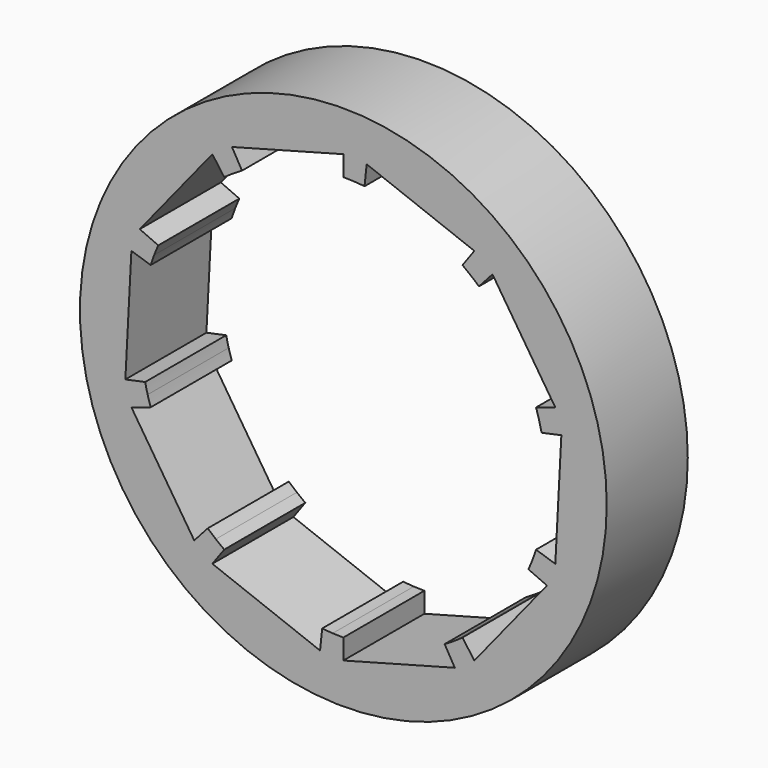
from build123d import *

# Parameters (mm, degrees)
F0_R     = 66.04
F1_DEPTH = 25.4


with BuildPart() as f1:
    # F0 (on Front) → F1 (new body)
    with BuildSketch(Plane.XZ):
        Circle(F0_R)
        with BuildLine():
            ThreePointArc((53.975935173, 14.4628082403), (54.3360311518, 13.0449269323), (54.658887929, 11.6181052829))
            ThreePointArc((54.658887929, 11.6181052829), (55.5738835132, 5.8410505274), (55.88, 0))
            ThreePointArc((55.88, 0), (55.1920244725, -8.7415579064), (53.1450381306, -17.2678696457))
            ThreePointArc((53.1450381306, -17.2678696457), (52.6748065222, -18.653127294), (52.1684742327, -20.0256010206))
            ThreePointArc((52.1684742327, -20.0256010206), (51.6263882767, -21.3843502006), (51.0489201731, -22.7284436151))
            ThreePointArc((51.0489201731, -22.7284436151), (43.4269163262, -35.1664234519), (32.8454398981, -45.2078696457))
            ThreePointArc((32.8454398981, -45.2078696457), (31.6507805194, -46.0521714202), (30.4344292766, -46.8649113368))
            ThreePointArc((30.4344292766, -46.8649113368), (29.1972197963, -47.6455323841), (27.94, -48.3934995635))
            ThreePointArc((27.94, -48.3934995635), (14.4628082403, -53.975935173), (0, -55.88))
            ThreePointArc((0, -55.88), (-1.4627678714, -55.8608513196), (-2.9245332349, -55.8034184021))
            ThreePointArc((-2.9245332349, -55.8034184021), (-4.3842942693, -55.707740609), (-5.8410505274, -55.5738835132))
            ThreePointArc((-5.8410505274, -55.5738835132), (-20.0256010206, -52.1684742327), (-32.8454398981, -45.2078696457))
            ThreePointArc((-32.8454398981, -45.2078696457), (-34.017588653, -44.3325846555), (-35.1664234519, -43.4269163262))
            ThreePointArc((-35.1664234519, -43.4269163262), (-36.2911569407, -42.4914853577), (-37.3910182833, -41.5269328477))
            ThreePointArc((-37.3910182833, -41.5269328477), (-46.8649113368, -30.4344292766), (-53.1450381306, -17.2678696457))
            ThreePointArc((-53.1450381306, -17.2678696457), (-53.5788467844, -15.8707774621), (-53.975935173, -14.4628082403))
            ThreePointArc((-53.975935173, -14.4628082403), (-54.3360311518, -13.0449269323), (-54.658887929, -11.6181052829))
            ThreePointArc((-54.658887929, -11.6181052829), (-55.8034184021, 2.9245332349), (-53.1450381306, 17.2678696457))
            ThreePointArc((-53.1450381306, 17.2678696457), (-52.6748065222, 18.653127294), (-52.1684742327, 20.0256010206))
            ThreePointArc((-52.1684742327, 20.0256010206), (-51.6263882767, 21.3843502006), (-51.0489201731, 22.7284436151))
            ThreePointArc((-51.0489201731, 22.7284436151), (-43.4269163262, 35.1664234519), (-32.8454398981, 45.2078696457))
            ThreePointArc((-32.8454398981, 45.2078696457), (-31.6507805194, 46.0521714202), (-30.4344292766, 46.8649113368))
            ThreePointArc((-30.4344292766, 46.8649113368), (-29.1972197963, 47.6455323841), (-27.94, 48.3934995635))
            ThreePointArc((-27.94, 48.3934995635), (-14.4628082403, 53.975935173), (0, 55.88))
            ThreePointArc((0, 55.88), (1.4627678714, 55.8608513196), (2.9245332349, 55.8034184021))
            ThreePointArc((2.9245332349, 55.8034184021), (4.3842942693, 55.707740609), (5.8410505274, 55.5738835132))
            ThreePointArc((5.8410505274, 55.5738835132), (20.0256010206, 52.1684742327), (32.8454398981, 45.2078696457))
            ThreePointArc((32.8454398981, 45.2078696457), (34.017588653, 44.3325846555), (35.1664234519, 43.4269163262))
            ThreePointArc((35.1664234519, 43.4269163262), (36.2911569407, 42.4914853577), (37.3910182833, 41.5269328477))
            ThreePointArc((37.3910182833, 41.5269328477), (46.8649113368, 30.4344292766), (53.1450381306, 17.2678696457))
            ThreePointArc((53.1450381306, 17.2678696457), (53.5788467844, 15.8707774621), (53.975935173, 14.4628082403))
        make_face(mode=Mode.SUBTRACT)
        with BuildLine():
            Line((-52.1684742327, 20.0256010206), (-47.4258856661, 18.2050918369))
            ThreePointArc((-47.4258856661, 18.2050918369), (-46.9330802516, 19.4403183641), (-46.4081092482, 20.6622214682))
            Line((-46.4081092482, 20.6622214683), (-51.0489201731, 22.7284436151))
            ThreePointArc((-51.0489201731, 22.7284436151), (-51.6263882767, 21.3843502006), (-52.1684742327, 20.0256010206))
        make_face()
        with BuildLine():
            ThreePointArc((-48.3136710278, 15.6980633142), (-47.8861877475, 16.9573884491), (-47.4258856661, 18.2050918369))
            Line((-47.4258856661, 18.2050918369), (-52.1684742327, 20.0256010206))
            ThreePointArc((-52.1684742327, 20.0256010206), (-52.6748065222, 18.653127294), (-53.1450381306, 17.2678696457))
            Line((-53.1450381306, 17.2678696457), (-48.3136710278, 15.6980633142))
        make_face()
        with BuildLine():
            Line((-30.4344292766, 46.8649113368), (-27.6676629788, 42.6044648516))
            ThreePointArc((-27.6676629788, 42.6044648516), (-26.5429270876, 43.3141203492), (-25.4, 43.9940905122))
            Line((-25.4, 43.9940905122), (-27.94, 48.3934995635))
            ThreePointArc((-27.94, 48.3934995635), (-29.1972197963, 47.6455323841), (-30.4344292766, 46.8649113368))
        make_face()
        with BuildLine():
            ThreePointArc((-29.8594908165, 41.0980633142), (-28.7734368358, 41.865610382), (-27.6676629788, 42.6044648516))
            Line((-27.6676629788, 42.6044648516), (-30.4344292766, 46.8649113368))
            ThreePointArc((-30.4344292766, 46.8649113368), (-31.6507805194, 46.0521714202), (-32.8454398981, 45.2078696457))
            Line((-32.8454398981, 45.2078696457), (-29.8594908165, 41.0980633142))
        make_face()
        with BuildLine():
            Line((2.9245332349, 55.8034184021), (2.6586665771, 50.7303803655))
            ThreePointArc((2.6586665771, 50.7303803655), (3.985722063, 50.6434005536), (5.310045934, 50.5217122847))
            Line((5.310045934, 50.5217122847), (5.8410505274, 55.5738835132))
            ThreePointArc((5.8410505274, 55.5738835132), (4.3842942693, 55.707740609), (2.9245332349, 55.8034184021))
        make_face()
        with BuildLine():
            ThreePointArc((0, 50.8), (1.329788974, 50.7825921088), (2.6586665771, 50.7303803655))
            Line((2.6586665771, 50.7303803655), (2.9245332349, 55.8034184021))
            ThreePointArc((2.9245332349, 55.8034184021), (1.4627678714, 55.8608513196), (0, 55.88))
            Line((0, 55.88), (0, 50.8))
        make_face()
        with BuildLine():
            ThreePointArc((29.8594908165, 41.0980633142), (30.9250805936, 40.3023496868), (31.9694758653, 39.479014842))
            Line((31.9694758653, 39.479014842), (35.1664234519, 43.4269163262))
            ThreePointArc((35.1664234519, 43.4269163262), (34.017588653, 44.3325846555), (32.8454398981, 45.2078696457))
            Line((32.8454398981, 45.2078696457), (29.8594908165, 41.0980633142))
        make_face()
        with BuildLine():
            Line((35.1664234519, 43.4269163262), (31.9694758653, 39.479014842))
            ThreePointArc((31.9694758653, 39.479014842), (32.9919608552, 38.6286230525), (33.991834803, 37.7517571343))
            Line((33.991834803, 37.7517571343), (37.3910182833, 41.5269328477))
            ThreePointArc((37.3910182833, 41.5269328477), (36.2911569407, 42.4914853577), (35.1664234519, 43.4269163262))
        make_face()
        with BuildLine():
            ThreePointArc((48.3136710278, 15.6980633142), (48.7080425313, 14.427979511), (49.0690319755, 13.1480074912))
            Line((49.0690319755, 13.1480074912), (53.975935173, 14.4628082403))
            ThreePointArc((53.975935173, 14.4628082403), (53.5788467844, 15.8707774621), (53.1450381306, 17.2678696457))
            Line((53.1450381306, 17.2678696457), (48.3136710278, 15.6980633142))
        make_face()
        with BuildLine():
            ThreePointArc((49.0690319755, 13.1480074912), (49.3963919562, 11.8590244839), (49.6898981173, 10.5619138935))
            Line((49.6898981173, 10.5619138935), (54.658887929, 11.6181052829))
            ThreePointArc((54.658887929, 11.6181052829), (54.3360311518, 13.0449269323), (53.975935173, 14.4628082403))
            Line((53.975935173, 14.4628082403), (49.0690319755, 13.1480074912))
        make_face()
        with BuildLine():
            Line((53.1450381306, -17.2678696457), (48.3136710278, -15.6980633142))
            ThreePointArc((48.3136710278, -15.6980633142), (47.8861877475, -16.9573884491), (47.4258856661, -18.2050918369))
            Line((47.4258856661, -18.2050918369), (52.1684742327, -20.0256010206))
            ThreePointArc((52.1684742327, -20.0256010206), (52.6748065222, -18.653127294), (53.1450381306, -17.2678696457))
        make_face()
        with BuildLine():
            Line((52.1684742327, -20.0256010206), (47.4258856661, -18.2050918369))
            ThreePointArc((47.4258856661, -18.2050918369), (46.9330802516, -19.4403183641), (46.4081092482, -20.6622214682))
            Line((46.4081092482, -20.6622214683), (51.0489201731, -22.7284436151))
            ThreePointArc((51.0489201731, -22.7284436151), (51.6263882767, -21.3843502006), (52.1684742327, -20.0256010206))
        make_face()
        with BuildLine():
            ThreePointArc((29.8594908165, -41.0980633142), (28.7734368358, -41.865610382), (27.6676629788, -42.6044648516))
            Line((27.6676629788, -42.6044648516), (30.4344292766, -46.8649113368))
            ThreePointArc((30.4344292766, -46.8649113368), (31.6507805194, -46.0521714202), (32.8454398981, -45.2078696457))
            Line((32.8454398981, -45.2078696457), (29.8594908165, -41.0980633142))
        make_face()
        with BuildLine():
            Line((30.4344292766, -46.8649113368), (27.6676629788, -42.6044648516))
            ThreePointArc((27.6676629788, -42.6044648516), (26.5429270876, -43.3141203492), (25.4, -43.9940905122))
            Line((25.4, -43.9940905122), (27.94, -48.3934995635))
            ThreePointArc((27.94, -48.3934995635), (29.1972197963, -47.6455323841), (30.4344292766, -46.8649113368))
        make_face()
        with BuildLine():
            ThreePointArc((0, -50.8), (-1.329788974, -50.7825921088), (-2.6586665771, -50.7303803655))
            Line((-2.6586665771, -50.7303803655), (-2.9245332349, -55.8034184021))
            ThreePointArc((-2.9245332349, -55.8034184021), (-1.4627678714, -55.8608513196), (0, -55.88))
            Line((0, -55.88), (0, -50.8))
        make_face()
        with BuildLine():
            Line((-2.9245332349, -55.8034184021), (-2.6586665771, -50.7303803655))
            ThreePointArc((-2.6586665771, -50.7303803655), (-3.985722063, -50.6434005536), (-5.310045934, -50.5217122847))
            Line((-5.310045934, -50.5217122847), (-5.8410505274, -55.5738835132))
            ThreePointArc((-5.8410505274, -55.5738835132), (-4.3842942693, -55.707740609), (-2.9245332349, -55.8034184021))
        make_face()
        with BuildLine():
            ThreePointArc((-29.8594908165, -41.0980633142), (-30.9250805936, -40.3023496868), (-31.9694758653, -39.479014842))
            Line((-31.9694758653, -39.479014842), (-35.1664234519, -43.4269163262))
            ThreePointArc((-35.1664234519, -43.4269163262), (-34.017588653, -44.3325846555), (-32.8454398981, -45.2078696457))
            Line((-32.8454398981, -45.2078696457), (-29.8594908165, -41.0980633142))
        make_face()
        with BuildLine():
            Line((-35.1664234519, -43.4269163262), (-31.9694758653, -39.479014842))
            ThreePointArc((-31.9694758653, -39.479014842), (-32.9919608552, -38.6286230525), (-33.991834803, -37.7517571343))
            Line((-33.991834803, -37.7517571343), (-37.3910182833, -41.5269328477))
            ThreePointArc((-37.3910182833, -41.5269328477), (-36.2911569407, -42.4914853577), (-35.1664234519, -43.4269163262))
        make_face()
        with BuildLine():
            ThreePointArc((-48.3136710278, -15.6980633142), (-48.7080425313, -14.427979511), (-49.0690319755, -13.1480074912))
            Line((-49.0690319755, -13.1480074912), (-53.975935173, -14.4628082403))
            ThreePointArc((-53.975935173, -14.4628082403), (-53.5788467844, -15.8707774621), (-53.1450381306, -17.2678696457))
            Line((-53.1450381306, -17.2678696457), (-48.3136710278, -15.6980633142))
        make_face()
        with BuildLine():
            Line((-53.975935173, -14.4628082403), (-49.0690319755, -13.1480074912))
            ThreePointArc((-49.0690319755, -13.1480074912), (-49.3963919562, -11.8590244839), (-49.6898981173, -10.5619138935))
            Line((-49.6898981173, -10.5619138935), (-54.658887929, -11.6181052829))
            ThreePointArc((-54.658887929, -11.6181052829), (-54.3360311518, -13.0449269323), (-53.975935173, -14.4628082403))
        make_face()
        with BuildLine():
            ThreePointArc((-53.1450381306, -17.2678696457), (-46.8649113368, -30.4344292766), (-37.3910182833, -41.5269328477))
            Line((-37.3910182833, -41.5269328477), (-53.1450381306, -17.2678696457))
        make_face()
        with BuildLine():
            ThreePointArc((-53.1450381306, 17.2678696457), (-55.8034184021, 2.9245332349), (-54.658887929, -11.6181052829))
            Line((-54.658887929, -11.6181052829), (-53.1450381306, 17.2678696457))
        make_face()
        with BuildLine():
            Line((-51.0489201731, 22.7284436151), (-32.8454398981, 45.2078696457))
            ThreePointArc((-32.8454398981, 45.2078696457), (-43.4269163262, 35.1664234519), (-51.0489201731, 22.7284436151))
        make_face()
        with BuildLine():
            ThreePointArc((0, 55.88), (-14.4628082403, 53.975935173), (-27.94, 48.3934995635))
            Line((-27.94, 48.3934995635), (0, 55.88))
        make_face()
        with BuildLine():
            ThreePointArc((32.8454398981, 45.2078696457), (20.0256010206, 52.1684742327), (5.8410505274, 55.5738835132))
            Line((5.8410505274, 55.5738835132), (32.8454398981, 45.2078696457))
        make_face()
        with BuildLine():
            Line((37.3910182833, 41.5269328477), (53.1450381306, 17.2678696457))
            ThreePointArc((53.1450381306, 17.2678696457), (46.8649113368, 30.4344292766), (37.3910182833, 41.5269328477))
        make_face()
        with BuildLine():
            ThreePointArc((55.88, 0), (55.5738835132, 5.8410505274), (54.658887929, 11.6181052829))
            Line((54.658887929, 11.6181052829), (53.1450381306, -17.2678696457))
            ThreePointArc((53.1450381306, -17.2678696457), (55.1920244725, -8.7415579064), (55.88, 0))
        make_face()
        with BuildLine():
            ThreePointArc((32.8454398981, -45.2078696457), (43.4269163262, -35.1664234519), (51.0489201731, -22.7284436151))
            Line((51.0489201731, -22.7284436151), (32.8454398981, -45.2078696457))
        make_face()
        with BuildLine():
            ThreePointArc((0, -55.88), (14.4628082403, -53.975935173), (27.94, -48.3934995635))
            Line((27.94, -48.3934995635), (0, -55.88))
        make_face()
        with BuildLine():
            ThreePointArc((-32.8454398981, -45.2078696457), (-20.0256010206, -52.1684742327), (-5.8410505274, -55.5738835132))
            Line((-5.8410505274, -55.5738835132), (-32.8454398981, -45.2078696457))
        make_face()
    extrude(amount=F1_DEPTH)


solid = f1.part
